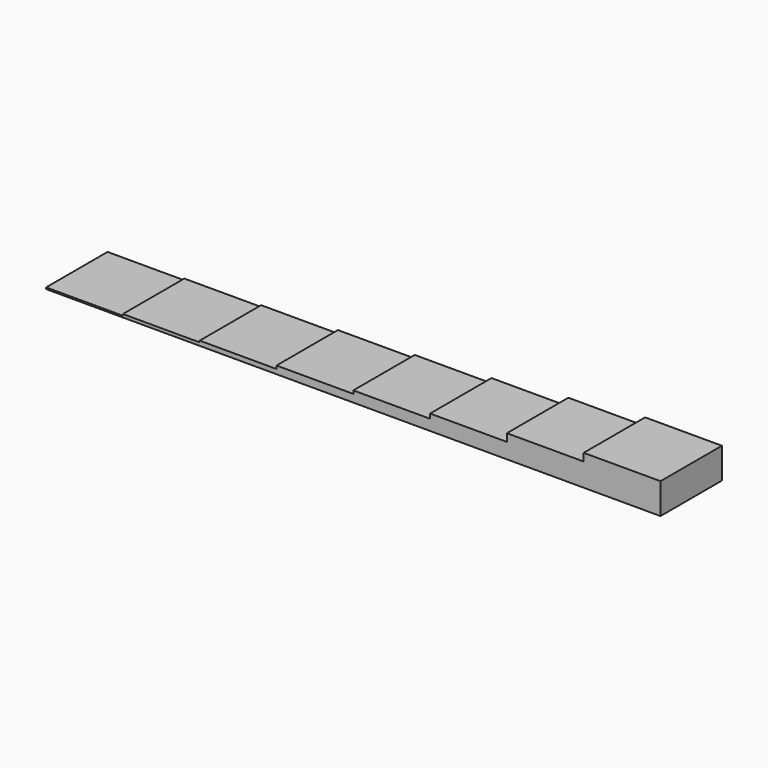
from build123d import *

# Parameters (mm, degrees)
F0_W     = 5
F0_H     = 5
F1_DEPTH = 0.1
F2_DEPTH = 0.5
F3_DEPTH = 0.7
F4_DEPTH = 1
F5_DEPTH = 1.5
F6_DEPTH = 2
F7_DEPTH = 0.2
F8_DEPTH = 0.3


with BuildPart() as f1:
    # F0 (on Top) → F1 (new body)
    with BuildSketch(Plane.XY):
        with Locations((-17.5, 0)):
            Rectangle(F0_W, F0_H)
    extrude(amount=F1_DEPTH)

    # F0 (on Top) → F7 (join)
    with BuildSketch(Plane.XY):
        with Locations((-12.5, 0)):
            Rectangle(F0_W, F0_H)
    extrude(amount=F7_DEPTH)



with BuildPart() as f2:
    # F0 (on Top) → F2 (new body)
    with BuildSketch(Plane.XY):
        with Locations((-2.5, 0)):
            Rectangle(F0_W, F0_H)
    extrude(amount=F2_DEPTH)

    # F0 (on Top) → F3 (join)
    with BuildSketch(Plane.XY):
        with Locations((2.5, 0)):
            Rectangle(F0_W, F0_H)
    extrude(amount=F3_DEPTH)

    # F0 (on Top) → F4 (join)
    with BuildSketch(Plane.XY):
        with Locations((7.5, 0)):
            Rectangle(F0_W, F0_H)
    extrude(amount=F4_DEPTH)

    # F0 (on Top) → F5 (join)
    with BuildSketch(Plane.XY):
        with Locations((12.5, 0)):
            Rectangle(F0_W, F0_H)
    extrude(amount=F5_DEPTH)

    # F0 (on Top) → F6 (join)
    with BuildSketch(Plane.XY):
        with Locations((17.5, 0)):
            Rectangle(F0_W, F0_H)
    extrude(amount=F6_DEPTH)


with BuildPart() as f1_1:
    add(f1.part)

    add(f2.part)  # F8 merges F2
    # F0 (on Top) → F8 (join)
    with BuildSketch(Plane.XY):
        with Locations((-7.5, 0)):
            Rectangle(F0_W, F0_H)
    extrude(amount=F8_DEPTH)


solid = f1_1.part
